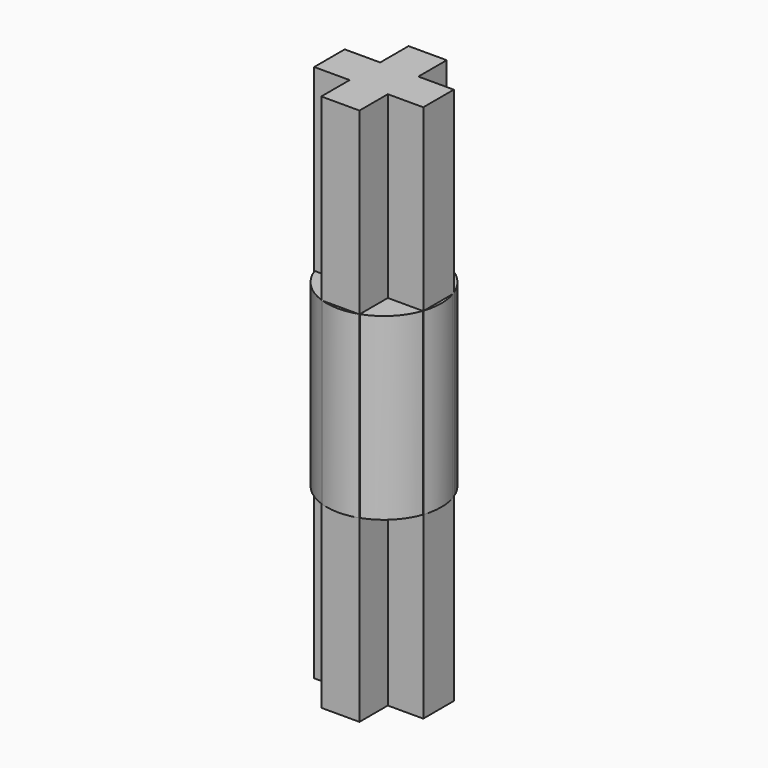
from build123d import *

# Parameters (mm, degrees)
F0_R     = 2.54
F1_DEPTH = 3.96875
F2_W     = 1.6891
F2_H     = 1.56845
F2_W_2   = 1.56845
F2_H_2   = 1.6891
F3_DEPTH = 11.90625


with BuildPart() as f1:
    # F0 (on Top) → F1 (new body, symmetric)
    with BuildSketch(Plane.XY):
        Circle(F0_R)
    extrude(amount=F1_DEPTH, both=True)

    # F2 (on Top) → F3 (join, symmetric)
    with BuildSketch(Plane.XY):
        with Locations((0, 1.628775)):
            Rectangle(F2_W, F2_H)
        with Locations((1.628775, 0)):
            Rectangle(F2_W_2, F2_H_2)
        Rectangle(F2_W, F2_H_2)
        with Locations((-1.628775, 0)):
            Rectangle(F2_W_2, F2_H_2)
        with Locations((0, -1.628775)):
            Rectangle(F2_W, F2_H)
    extrude(amount=F3_DEPTH, both=True)


solid = f1.part
